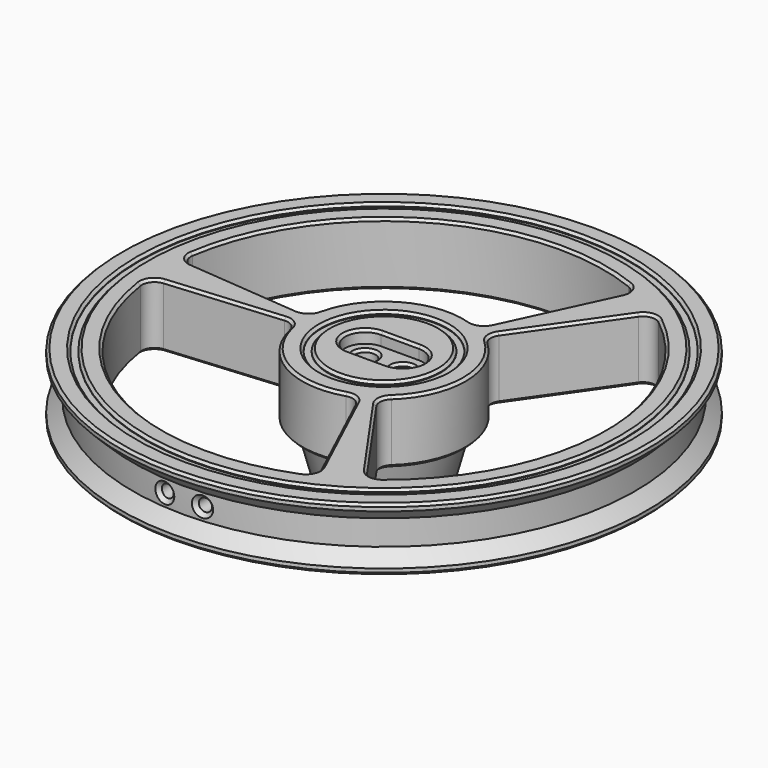
from build123d import *

# Parameters (mm, degrees)
POCKET013_DEPTH = 25.001
FILLET001_R     = 2
CHAMFER008_SIZE = 0.4
CHAMFER009_SIZE = 0.4
SKETCH025_R     = 1.65
POCKET014_DEPTH = 25.001
SKETCH026_R     = 1
POCKET015_DEPTH = 9.001
POCKET016_DEPTH = 2
SKETCH028_R     = 39
SKETCH028_R_2   = 38
POCKET017_DEPTH = 0.5
SKETCH029_R     = 10
SKETCH029_R_2   = 9
POCKET018_DEPTH = 0.5
CHAMFER010_SIZE = 0.4
CHAMFER011_SIZE = 0.6


with BuildPart() as part:
    # Sketch022 (on DatumPlane) → Revolution (revolve)
    with BuildSketch(Plane.YZ):
        Polygon((-6.05, 20), (-6.05, 40), (0, 40), (0, 45), (-42, 45), (-42, 44), (-40, 42), (-40, 38), (-42, 36), (-42, 35), (-11.05, 35), (-7.05, 20), align=None)
    revolve(axis=Axis((0, 0, 0), (0, 0, 1)))

    # Sketch023 (on Face3 of Revolution) → Pocket013 (cut, through all)
    with BuildSketch(Plane(origin=(0, 0, 45), x_dir=(0, -1, 0), z_dir=(0, 0, 1))):
        with BuildLine():
            ThreePointArc((28.670322, 20.075175), (0, 35), (-28.670322, 20.075175))
            Line((-28.670322, 20.075175), (-10.648977, 7.456494))
            ThreePointArc((10.648977, 7.456494), (0, 13), (-10.648977, 7.456494))
            Line((10.648977, 7.456494), (28.670322, 20.075175))
        make_face()
        with BuildLine():
            ThreePointArc((-11.782001, 5.494037), (-11.25833, -6.5), (-1.133025, -12.950531))
            Line((-1.133025, -12.950531), (-3.050451, -34.866814))
            ThreePointArc((-31.720773, 14.791639), (-30.310889, -17.5), (-3.050451, -34.866814))
            Line((-31.720773, 14.791639), (-11.782001, 5.494037))
        make_face()
        with BuildLine():
            ThreePointArc((1.133025, -12.950531), (11.25833, -6.5), (11.782001, 5.494037))
            Line((11.782001, 5.494037), (31.720773, 14.791639))
            ThreePointArc((3.050451, -34.866814), (30.310889, -17.5), (31.720773, 14.791639))
            Line((1.133025, -12.950531), (3.050451, -34.866814))
        make_face()
    extrude(amount=-POCKET013_DEPTH, mode=Mode.SUBTRACT)

    # Fillet001
    fillet001_edges = [part.edges().sort_by_distance(p)[0] for p in [
        (5.494037, 11.782001, 40),
        (14.791639, 31.720773, 40),
        (-34.866814, 3.050451, 40),
        (-12.950531, 1.133025, 40),
        (20.075175, 28.670322, 40),
        (7.456494, -10.648977, 40),
        (7.456494, 10.648977, 40),
        (20.075175, -28.670322, 40),
        (-12.950531, -1.133025, 40),
        (-34.866814, -3.050451, 40),
        (14.791639, -31.720773, 40),
        (5.494037, -11.782001, 40),
    ]]
    fillet(fillet001_edges, radius=FILLET001_R)

    # Chamfer008
    chamfer008_edges = [part.edges().sort_by_distance(p)[0] for p in [
        (-17.5, 30.310889, 45),
        (13.965934, 31.439118, 45),
        (-34.210042, 3.624706, 45),
        (10.101719, 21.663206, 45),
        (-23.811746, 2.083258, 45),
        (5.278141, 12.48899, 45),
        (-13.454853, 1.673491, 45),
        (-6.5, 11.25833, 45),
        (0, 42, 45),
        (-23.811746, -2.083258, 45),
        (-13.454853, -1.673491, 45),
        (-34.210042, -3.624706, 45),
        (-6.5, -11.25833, 45),
        (-17.5, -30.310889, 45),
        (5.278141, -12.48899, 45),
        (13.965934, -31.439118, 45),
        (10.101719, -21.663206, 45),
        (13.710027, -19.579948, 45),
        (8.176712, -10.815499, 45),
        (20.244108, -27.814412, 45),
        (13, 0, 45),
        (35, 0, 45),
        (8.176712, 10.815499, 45),
        (20.244108, 27.814412, 45),
        (13.710027, 19.579948, 45),
    ]]
    chamfer(chamfer008_edges, length=CHAMFER008_SIZE)

    # Chamfer009
    chamfer009_edges = [part.edges().sort_by_distance(p)[0] for p in [
        (-6.5, -11.25833, 35),
        (-13.454853, -1.673491, 35),
        (5.278141, -12.48899, 35),
        (-23.811746, -2.083258, 35),
        (10.101719, -21.663206, 35),
        (-34.210042, -3.624706, 35),
        (13.965934, -31.439118, 35),
        (-17.5, -30.310889, 35),
        (0, 42, 35),
        (0, 11.05, 35),
        (-6.5, 11.25833, 35),
        (5.278141, 12.48899, 35),
        (-13.454853, 1.673491, 35),
        (10.101719, 21.663206, 35),
        (-23.811746, 2.083258, 35),
        (13.965934, 31.439118, 35),
        (-34.210042, 3.624706, 35),
        (-17.5, 30.310889, 35),
        (13.710027, -19.579948, 35),
        (20.244108, -27.814412, 35),
        (8.176712, -10.815499, 35),
        (35, 0, 35),
        (13, 0, 35),
        (20.244108, 27.814412, 35),
        (8.176712, 10.815499, 35),
        (13.710027, 19.579948, 35),
    ]]
    chamfer(chamfer009_edges, length=CHAMFER009_SIZE)

    # Sketch025 (on DatumPlane) → Pocket014 (cut, through all)
    with BuildSketch(Plane.XY.offset(45)):
        with Locations((-3, 0)):
            Circle(SKETCH025_R)
        with Locations((3, 0)):
            Circle(SKETCH025_R)
    extrude(amount=-POCKET014_DEPTH, mode=Mode.SUBTRACT)

    # Sketch026 (on DatumPlane) → Pocket015 (cut, through all)
    with BuildSketch(Plane.XZ.offset(33)):
        with Locations((-3, 40)):
            Circle(SKETCH026_R)
        with Locations((3, 40)):
            Circle(SKETCH026_R)
    extrude(amount=POCKET015_DEPTH, mode=Mode.SUBTRACT)

    # Sketch027 (on DatumPlane) → Pocket016 (cut)
    with BuildSketch(Plane.XY.offset(45)):
        with BuildLine():
            ThreePointArc((-3, 3.2), (-6.2, 0), (-3, -3.2))
            Line((-3, -3.2), (3, -3.2))
            ThreePointArc((3, -3.2), (6.2, 0), (3, 3.2))
            Line((-3, 3.2), (3, 3.2))
        make_face()
    extrude(amount=-POCKET016_DEPTH, mode=Mode.SUBTRACT)

    # Sketch028 (on DatumPlane) → Pocket017 (cut)
    with BuildSketch(Plane.XY.offset(45)):
        Circle(SKETCH028_R)
        Circle(SKETCH028_R_2, mode=Mode.SUBTRACT)
    extrude(amount=-POCKET017_DEPTH, mode=Mode.SUBTRACT)

    # Sketch029 (on DatumPlane) → Pocket018 (cut)
    with BuildSketch(Plane.XY.offset(45)):
        Circle(SKETCH029_R)
        Circle(SKETCH029_R_2, mode=Mode.SUBTRACT)
    extrude(amount=-POCKET018_DEPTH, mode=Mode.SUBTRACT)

    # Chamfer010
    chamfer010_edges = [part.edges().sort_by_distance(p)[0] for p in [
        (-39, 0, 45),
        (-38, 0, 45),
        (-10, 0, 45),
        (-9, 0, 45),
        (6.2, 0, 45),
        (0, -3.2, 45),
        (-6.2, 0, 45),
        (0, 3.2, 45),
        (1.35, 0, 43),
        (-4.65, 0, 43),
    ]]
    chamfer(chamfer010_edges, length=CHAMFER010_SIZE)

    # Chamfer011
    chamfer011_edges = [part.edges().sort_by_distance(p)[0] for p in [
        (-4, -39.799497, 40),
        (2, -39.949969, 40),
        (2, -34.94281, 40),
        (-4, -34.770677, 40),
    ]]
    chamfer(chamfer011_edges, length=CHAMFER011_SIZE)


solid = part.part
